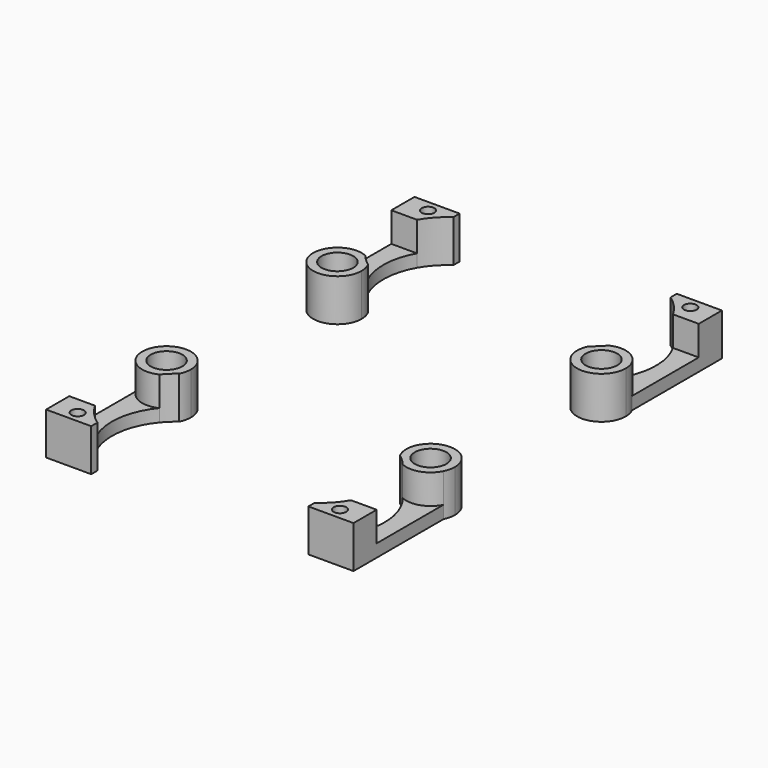
from build123d import *

# Parameters (mm, degrees)
F0_R     = 3.75
F0_R_2   = 1.5
F1_DEPTH = 3
F2_DEPTH = 10


with BuildPart() as f1:
    # F0 (on Top) → F1 (new body)
    with BuildSketch(Plane.XY):
        with BuildLine():
            ThreePointArc((-36.370623, 27.862394), (-32.574581, 19.67326), (-25.490072, 25.266254))
            ThreePointArc((-25.490072, 25.266254), (-25.660285, 26.65495), (-26.160846, 27.961428))
            ThreePointArc((-26.160846, 27.961428), (-27.553867, 29.136956), (-28.795974, 30.470953))
            ThreePointArc((-28.795974, 30.470953), (-33.112344, 30.702898), (-36.370623, 27.862394))
        make_face()
        with Locations((-31.240072, 25.266254)):
            Circle(F0_R, mode=Mode.SUBTRACT)
        with BuildLine():
            ThreePointArc((26.160846, 27.961428), (29.851376, 19.686467), (36.990072, 25.266254))
            ThreePointArc((36.990072, 25.266254), (36.833066, 26.600763), (36.370623, 27.862394))
            ThreePointArc((36.370623, 27.862394), (33.112344, 30.702898), (28.795974, 30.470953))
            ThreePointArc((28.795974, 30.470953), (27.553867, 29.136956), (26.160846, 27.961428))
        make_face()
        with Locations((31.240072, 25.266254)):
            Circle(F0_R, mode=Mode.SUBTRACT)
        with BuildLine():
            Line((30.285853, 47.628131), (36.370623, 47.628131))
            Line((36.370623, 47.628131), (36.370623, 54.481386))
            Line((36.370623, 54.481386), (25.690743, 54.481386))
            Line((25.690743, 54.481386), (25.690743, 52.638071))
            ThreePointArc((25.690743, 52.638071), (28.272313, 50.393599), (30.285853, 47.628131))
        make_face()
        with Locations((31.030683, 51.814485)):
            Circle(F0_R_2, mode=Mode.SUBTRACT)
        with BuildLine():
            ThreePointArc((36.370623, -27.862394), (36.833066, -26.600763), (36.990072, -25.266254))
            ThreePointArc((36.990072, -25.266254), (29.851376, -19.686467), (26.160846, -27.961428))
            ThreePointArc((26.160846, -27.961428), (27.553867, -29.136956), (28.795974, -30.470953))
            ThreePointArc((28.795974, -30.470953), (33.112344, -30.702898), (36.370623, -27.862394))
        make_face()
        with Locations((31.240072, -25.266254)):
            Circle(F0_R, mode=Mode.SUBTRACT)
        with BuildLine():
            Line((36.370623, -47.628131), (36.370623, -27.862394))
            ThreePointArc((36.370623, -27.862394), (33.112344, -30.702898), (28.795974, -30.470953))
            ThreePointArc((28.795974, -30.470953), (32.208965, -38.817856), (30.285853, -47.628131))
            Line((30.285853, -47.628131), (36.370623, -47.628131))
        make_face()
        with BuildLine():
            ThreePointArc((-26.160846, -27.961428), (-25.660285, -26.65495), (-25.490072, -25.266254))
            ThreePointArc((-25.490072, -25.266254), (-32.574581, -19.67326), (-36.370623, -27.862394))
            ThreePointArc((-36.370623, -27.862394), (-33.112344, -30.702898), (-28.795974, -30.470953))
            ThreePointArc((-28.795974, -30.470953), (-27.553867, -29.136956), (-26.160846, -27.961428))
        make_face()
        with Locations((-31.240072, -25.266254)):
            Circle(F0_R, mode=Mode.SUBTRACT)
        with BuildLine():
            Line((-36.370623, 47.628131), (-36.370623, 27.862394))
            ThreePointArc((-36.370623, 27.862394), (-33.112344, 30.702898), (-28.795974, 30.470953))
            ThreePointArc((-28.795974, 30.470953), (-32.208965, 38.817856), (-30.285853, 47.628131))
            Line((-30.285853, 47.628131), (-36.370623, 47.628131))
        make_face()
        with BuildLine():
            ThreePointArc((-28.795974, -30.470953), (-33.112344, -30.702898), (-36.370623, -27.862394))
            Line((-36.370623, -27.862394), (-36.370623, -47.628131))
            Line((-36.370623, -47.628131), (-30.285853, -47.628131))
            ThreePointArc((-30.285853, -47.628131), (-32.208965, -38.817856), (-28.795974, -30.470953))
        make_face()
        with BuildLine():
            ThreePointArc((28.795974, 30.470953), (33.112344, 30.702898), (36.370623, 27.862394))
            Line((36.370623, 27.862394), (36.370623, 47.628131))
            Line((36.370623, 47.628131), (30.285853, 47.628131))
            ThreePointArc((30.285853, 47.628131), (32.208965, 38.817856), (28.795974, 30.470953))
        make_face()
        with BuildLine():
            Line((-36.370623, 54.481386), (-36.370623, 47.628131))
            Line((-36.370623, 47.628131), (-30.285853, 47.628131))
            ThreePointArc((-30.285853, 47.628131), (-28.272313, 50.393599), (-25.690743, 52.638071))
            Line((-25.690743, 52.638071), (-25.690743, 54.481386))
            Line((-25.690743, 54.481386), (-36.370623, 54.481386))
        make_face()
        with Locations((-31.030683, 51.814485)):
            Circle(F0_R_2, mode=Mode.SUBTRACT)
        with BuildLine():
            Line((36.370623, -54.481386), (36.370623, -47.628131))
            Line((36.370623, -47.628131), (30.285853, -47.628131))
            ThreePointArc((30.285853, -47.628131), (28.272313, -50.393599), (25.690743, -52.638071))
            Line((25.690743, -52.638071), (25.690743, -54.481386))
            Line((25.690743, -54.481386), (36.370623, -54.481386))
        make_face()
        with Locations((31.030683, -51.814485)):
            Circle(F0_R_2, mode=Mode.SUBTRACT)
        with BuildLine():
            Line((-30.285853, -47.628131), (-36.370623, -47.628131))
            Line((-36.370623, -47.628131), (-36.370623, -54.481386))
            Line((-36.370623, -54.481386), (-25.690743, -54.481386))
            Line((-25.690743, -54.481386), (-25.690743, -52.638071))
            ThreePointArc((-25.690743, -52.638071), (-28.272313, -50.393599), (-30.285853, -47.628131))
        make_face()
        with Locations((-31.030683, -51.814485)):
            Circle(F0_R_2, mode=Mode.SUBTRACT)
    extrude(amount=F1_DEPTH)

    # F0 (on Top) → F2 (join)
    with BuildSketch(Plane.XY):
        with BuildLine():
            ThreePointArc((-36.370623, 27.862394), (-32.574581, 19.67326), (-25.490072, 25.266254))
            ThreePointArc((-25.490072, 25.266254), (-25.660285, 26.65495), (-26.160846, 27.961428))
            ThreePointArc((-26.160846, 27.961428), (-27.553867, 29.136956), (-28.795974, 30.470953))
            ThreePointArc((-28.795974, 30.470953), (-33.112344, 30.702898), (-36.370623, 27.862394))
        make_face()
        with Locations((-31.240072, 25.266254)):
            Circle(F0_R, mode=Mode.SUBTRACT)
        with BuildLine():
            ThreePointArc((26.160846, 27.961428), (29.851376, 19.686467), (36.990072, 25.266254))
            ThreePointArc((36.990072, 25.266254), (36.833066, 26.600763), (36.370623, 27.862394))
            ThreePointArc((36.370623, 27.862394), (33.112344, 30.702898), (28.795974, 30.470953))
            ThreePointArc((28.795974, 30.470953), (27.553867, 29.136956), (26.160846, 27.961428))
        make_face()
        with Locations((31.240072, 25.266254)):
            Circle(F0_R, mode=Mode.SUBTRACT)
        with BuildLine():
            ThreePointArc((36.370623, -27.862394), (36.833066, -26.600763), (36.990072, -25.266254))
            ThreePointArc((36.990072, -25.266254), (29.851376, -19.686467), (26.160846, -27.961428))
            ThreePointArc((26.160846, -27.961428), (27.553867, -29.136956), (28.795974, -30.470953))
            ThreePointArc((28.795974, -30.470953), (33.112344, -30.702898), (36.370623, -27.862394))
        make_face()
        with Locations((31.240072, -25.266254)):
            Circle(F0_R, mode=Mode.SUBTRACT)
        with BuildLine():
            ThreePointArc((-26.160846, -27.961428), (-25.660285, -26.65495), (-25.490072, -25.266254))
            ThreePointArc((-25.490072, -25.266254), (-32.574581, -19.67326), (-36.370623, -27.862394))
            ThreePointArc((-36.370623, -27.862394), (-33.112344, -30.702898), (-28.795974, -30.470953))
            ThreePointArc((-28.795974, -30.470953), (-27.553867, -29.136956), (-26.160846, -27.961428))
        make_face()
        with Locations((-31.240072, -25.266254)):
            Circle(F0_R, mode=Mode.SUBTRACT)
        with BuildLine():
            Line((-36.370623, 54.481386), (-36.370623, 47.628131))
            Line((-36.370623, 47.628131), (-30.285853, 47.628131))
            ThreePointArc((-30.285853, 47.628131), (-28.272313, 50.393599), (-25.690743, 52.638071))
            Line((-25.690743, 52.638071), (-25.690743, 54.481386))
            Line((-25.690743, 54.481386), (-36.370623, 54.481386))
        make_face()
        with Locations((-31.030683, 51.814485)):
            Circle(F0_R_2, mode=Mode.SUBTRACT)
        with BuildLine():
            Line((30.285853, 47.628131), (36.370623, 47.628131))
            Line((36.370623, 47.628131), (36.370623, 54.481386))
            Line((36.370623, 54.481386), (25.690743, 54.481386))
            Line((25.690743, 54.481386), (25.690743, 52.638071))
            ThreePointArc((25.690743, 52.638071), (28.272313, 50.393599), (30.285853, 47.628131))
        make_face()
        with Locations((31.030683, 51.814485)):
            Circle(F0_R_2, mode=Mode.SUBTRACT)
        with BuildLine():
            Line((36.370623, -54.481386), (36.370623, -47.628131))
            Line((36.370623, -47.628131), (30.285853, -47.628131))
            ThreePointArc((30.285853, -47.628131), (28.272313, -50.393599), (25.690743, -52.638071))
            Line((25.690743, -52.638071), (25.690743, -54.481386))
            Line((25.690743, -54.481386), (36.370623, -54.481386))
        make_face()
        with Locations((31.030683, -51.814485)):
            Circle(F0_R_2, mode=Mode.SUBTRACT)
        with BuildLine():
            Line((-30.285853, -47.628131), (-36.370623, -47.628131))
            Line((-36.370623, -47.628131), (-36.370623, -54.481386))
            Line((-36.370623, -54.481386), (-25.690743, -54.481386))
            Line((-25.690743, -54.481386), (-25.690743, -52.638071))
            ThreePointArc((-25.690743, -52.638071), (-28.272313, -50.393599), (-30.285853, -47.628131))
        make_face()
        with Locations((-31.030683, -51.814485)):
            Circle(F0_R_2, mode=Mode.SUBTRACT)
    extrude(amount=F2_DEPTH)


solid = f1.part
